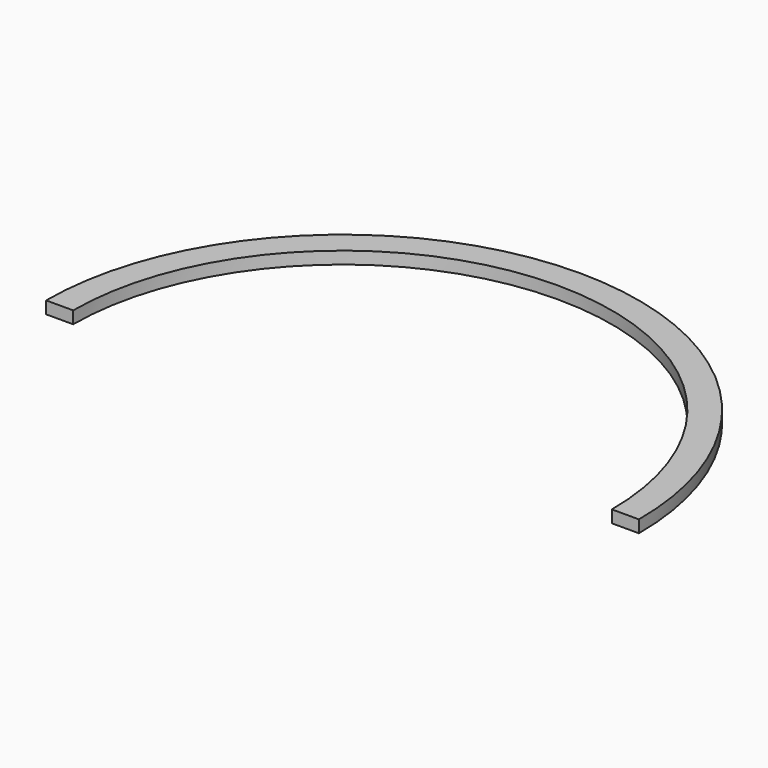
from build123d import *

# Parameters (mm, degrees)
F1_DEPTH = 5.5118


with BuildPart() as f1:
    # F0 (on Top) → F1 (new body)
    with BuildSketch(Plane.XY):
        with BuildLine():
            ThreePointArc((-127, 0), (0, 127), (127, 0))
            Line((127, 0), (131.50215, 0))
            ThreePointArc((131.50215, 0), (0, 131.50215), (-131.50215, 0))
            Line((-131.50215, 0), (-127, 0))
        make_face()
        with BuildLine():
            Line((122.49785, 0), (127, 0))
            ThreePointArc((127, 0), (0, 127), (-127, 0))
            Line((-127, 0), (-122.49785, 0))
            ThreePointArc((-122.49785, 0), (0, 122.49785), (122.49785, 0))
        make_face()
        with BuildLine():
            ThreePointArc((-131.50215, 0), (0, 131.50215), (131.50215, 0))
            Line((131.50215, 0), (133.07695, 0))
            ThreePointArc((133.07695, 0), (0, 133.07695), (-133.07695, 0))
            Line((-133.07695, 0), (-131.50215, 0))
        make_face()
        with BuildLine():
            Line((120.92305, 0), (122.49785, 0))
            ThreePointArc((122.49785, 0), (0, 122.49785), (-122.49785, 0))
            Line((-122.49785, 0), (-120.92305, 0))
            ThreePointArc((-120.92305, 0), (0, 120.92305), (120.92305, 0))
        make_face()
    extrude(amount=-F1_DEPTH)


solid = f1.part
